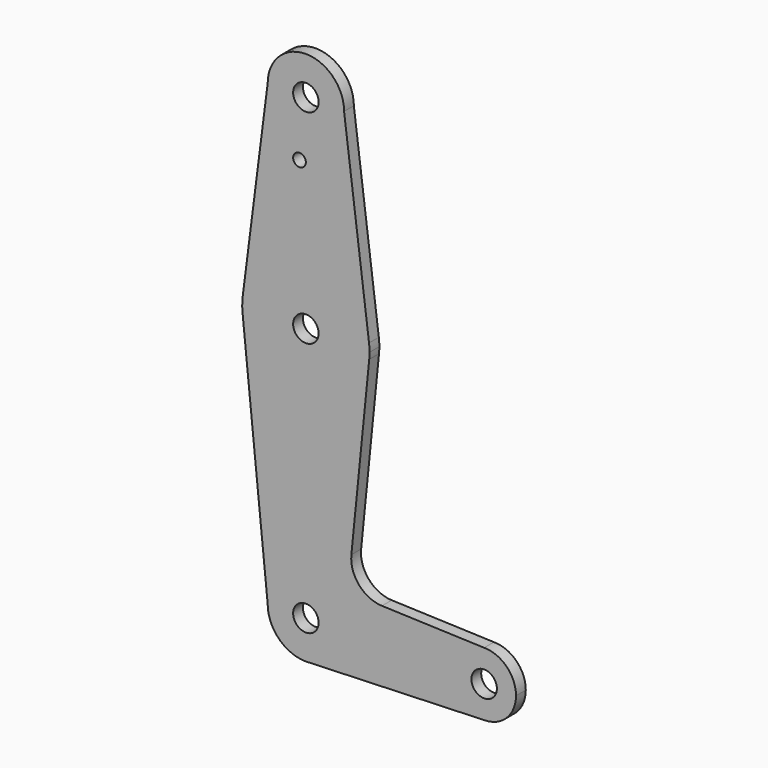
from build123d import *

# Parameters (mm, degrees)
F0_R     = 3.175
F0_R_2   = 1.5875
F1_DEPTH = 3.048


with BuildPart() as f1:
    # F0 (on Front) → F1 (new body)
    with BuildSketch(Plane.XZ):
        with BuildLine():
            ThreePointArc((0.677344, -9.500886), (6.970557, -6.491299), (9.525, 0))
            ThreePointArc((9.525, 0), (0, 9.525), (-9.525, 0))
            ThreePointArc((-9.525, 0), (-6.735192, -6.735192), (0, -9.525))
            Line((0, -9.525), (0.677344, -9.500886))
        make_face()
        Circle(F0_R, mode=Mode.SUBTRACT)
        with BuildLine():
            ThreePointArc((-9.525, 0), (0, 9.525), (9.525, 0))
            ThreePointArc((9.525, 0), (6.970557, -6.491299), (0.677344, -9.500886))
            Line((0.677344, -9.500886), (44.732405, -7.932475))
            ThreePointArc((44.732405, -7.932475), (36.513756, -0.141225), (44.45, 7.9375))
            Line((44.45, 7.9375), (18.966474, 8.851134))
            ThreePointArc((18.966474, 8.851134), (13.260686, 11.569571), (11.340972, 17.59125))
            Line((11.340972, 17.59125), (15.795426, 61.9125))
            ThreePointArc((15.795426, 61.9125), (0.006091, 47.625001), (-15.794203, 61.90038))
            Line((-15.794203, 61.90038), (-9.525, 0))
        make_face()
        with BuildLine():
            ThreePointArc((0, -9.525), (0.338886, -9.51897), (0.677344, -9.500886))
            Line((0.677344, -9.500886), (0, -9.525))
        make_face()
        with BuildLine():
            ThreePointArc((-15.747457, 65.508289), (-15.873668, 63.705667), (-15.794203, 61.90038))
            ThreePointArc((-15.794203, 61.90038), (0.006091, 47.625001), (15.795426, 61.9125))
            ThreePointArc((15.795426, 61.9125), (15.855094, 62.705253), (15.875, 63.5))
            ThreePointArc((15.875, 63.5), (15.843082, 64.506168), (15.747457, 65.508289))
            ThreePointArc((15.747457, 65.508289), (0, 79.375), (-15.747457, 65.508289))
        make_face()
        with Locations((0, 63.5)):
            Circle(F0_R, mode=Mode.SUBTRACT)
        with BuildLine():
            ThreePointArc((44.45, 7.9375), (36.513756, -0.141225), (44.732405, -7.932475))
            ThreePointArc((44.732405, -7.932475), (50.161633, -5.51191), (52.3875, 0))
            ThreePointArc((52.3875, 0), (50.06266, 5.61266), (44.45, 7.9375))
        make_face()
        with Locations((44.45, 0)):
            Circle(F0_R, mode=Mode.SUBTRACT)
        with BuildLine():
            Line((-9.525, 114.3), (-15.747457, 65.508289))
            ThreePointArc((-15.747457, 65.508289), (0, 79.375), (15.747457, 65.508289))
            Line((15.747457, 65.508289), (9.525, 114.3))
            ThreePointArc((9.525, 114.3), (0, 104.775), (-9.525, 114.3))
        make_face()
        with Locations((-1.5875, 100.0252)):
            Circle(F0_R_2, mode=Mode.SUBTRACT)
        with BuildLine():
            ThreePointArc((9.525, 114.3), (0, 123.825), (-9.525, 114.3))
            ThreePointArc((-9.525, 114.3), (0, 104.775), (9.525, 114.3))
        make_face()
        with Locations((0, 114.3)):
            Circle(F0_R, mode=Mode.SUBTRACT)
    extrude(amount=F1_DEPTH)


solid = f1.part
